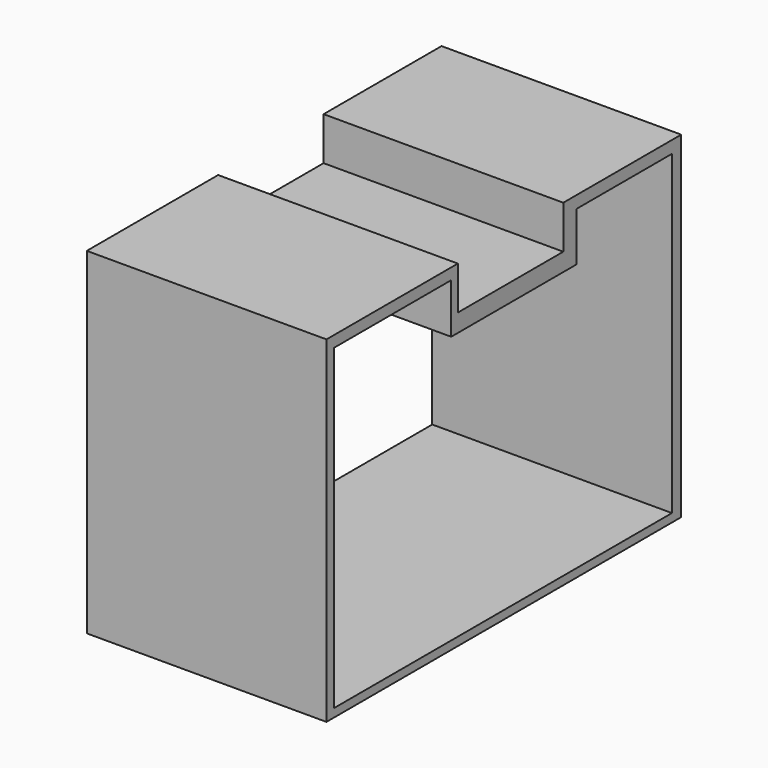
from build123d import *

# Parameters (mm, degrees)
F1_DEPTH = 2000


with BuildPart() as f1:
    # F0 (on Right) → F1 (new body)
    with BuildSketch(Plane.YZ):
        Polygon((-480, 1405), (-1850, 1405), (-1850, -1405), (1850, -1405), (1850, 1405), (620, 1405), (620, 1045), (-480, 1045), align=None)
        Polygon((-1769.742012, -1335.445642), (-1769.742012, 1311.149836), (-549.235375, 1311.149836), (-549.235375, 895.383954), (756.179897, 895.383954), (756.179897, 1303.410512), (1753.091216, 1303.410512), (1753.091216, -1335.445642), align=None, mode=Mode.SUBTRACT)
    extrude(amount=F1_DEPTH)


solid = f1.part
